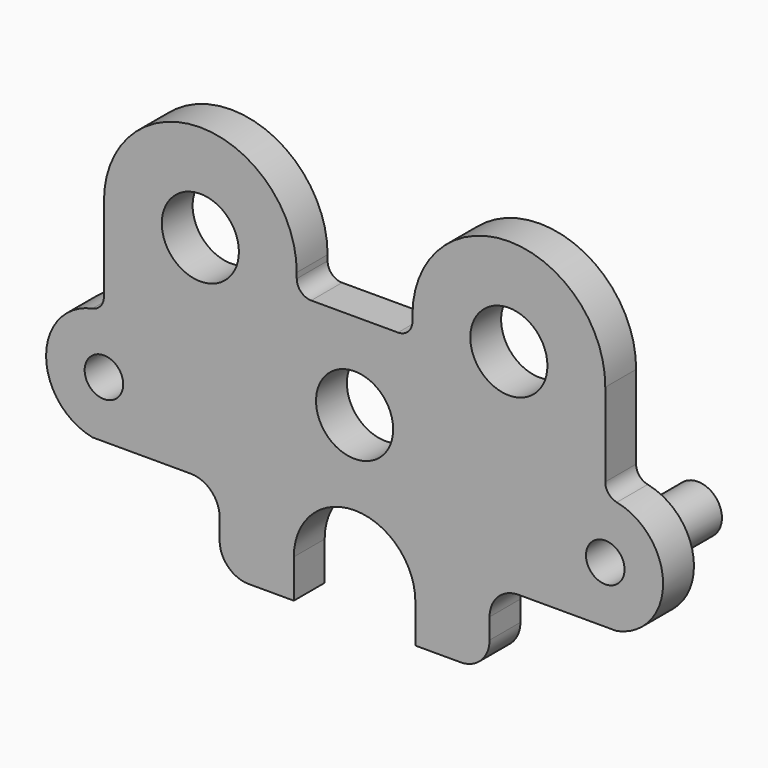
from build123d import *

# Parameters (mm, degrees)
F0_R     = 7.9375
F0_R_2   = 12.7
F0_R_3   = 6.35
F1_DEPTH = 12.7
F2_DEPTH = 25.4


with BuildPart() as f1:
    # F0 (on Front) → F1 (new body)
    with BuildSketch(Plane.XZ):
        with BuildLine():
            Line((14.2875, 28.575), (-14.2875, 28.575))
            ThreePointArc((-14.2875, 28.575), (-17.655096, 29.969904), (-19.05, 33.3375))
            Line((-19.05, 33.3375), (-19.05, 35.148678))
            ThreePointArc((-19.05, 35.148678), (-50.912234, 66.898875), (-82.55, 34.925))
            Line((-82.55, 34.925), (-82.55, 7.45639))
            ThreePointArc((-82.55, 7.45639), (-83.623483, 4.44432), (-86.36, 2.790112))
            ThreePointArc((-86.36, 2.790112), (-101.6, -15.875), (-86.36, -34.540112))
            Line((-86.36, -34.540112), (-82.55, -34.540112))
            Line((-82.55, -34.540112), (-53.975, -34.540112))
            ThreePointArc((-53.975, -34.540112), (-47.239808, -37.32992), (-44.45, -44.065112))
            Line((-44.45, -44.065112), (-44.45, -50.8))
            ThreePointArc((-44.45, -50.8), (-41.660192, -57.535192), (-34.925, -60.325))
            Line((-34.925, -60.325), (-20.016928, -60.325))
            Line((-20.016928, -60.325), (-20.016928, -47.625))
            ThreePointArc((-20.016928, -47.625), (0, -27.608072), (20.016928, -47.625))
            Line((20.016928, -47.625), (20.016928, -60.325))
            Line((20.016928, -60.325), (34.925, -60.325))
            ThreePointArc((34.925, -60.325), (41.660192, -57.535192), (44.45, -50.8))
            Line((44.45, -50.8), (44.45, -44.065112))
            ThreePointArc((44.45, -44.065112), (47.239808, -37.32992), (53.975, -34.540112))
            Line((53.975, -34.540112), (82.55, -34.540112))
            Line((82.55, -34.540112), (86.36, -34.540112))
            ThreePointArc((86.36, -34.540112), (101.6, -15.875), (86.36, 2.790112))
            ThreePointArc((86.36, 2.790112), (83.623483, 4.44432), (82.55, 7.45639))
            Line((82.55, 7.45639), (82.55, 34.925))
            ThreePointArc((82.55, 34.925), (50.912234, 66.898875), (19.05, 35.148678))
            Line((19.05, 35.148678), (19.05, 33.3375))
            ThreePointArc((19.05, 33.3375), (17.655096, 29.969904), (14.2875, 28.575))
        make_face()
        with Locations((-82.55, -15.875)):
            Circle(F0_R, mode=Mode.SUBTRACT)
        Circle(F0_R_2, mode=Mode.SUBTRACT)
        with Locations((82.55, -15.875)):
            Circle(F0_R, mode=Mode.SUBTRACT)
        with Locations((-50.8, 34.925)):
            Circle(F0_R_2, mode=Mode.SUBTRACT)
        with Locations((50.8, 34.925)):
            Circle(F0_R_2, mode=Mode.SUBTRACT)
        with Locations((82.55, -15.875)):
            Circle(F0_R)
        with Locations((82.55, -15.875)):
            Circle(F0_R_3, mode=Mode.SUBTRACT)
        with Locations((-82.55, -15.875)):
            Circle(F0_R)
        with Locations((-82.55, -15.875)):
            Circle(F0_R_3, mode=Mode.SUBTRACT)
    extrude(amount=F1_DEPTH)


with BuildPart() as f2:
    # F0 (on Front) → F2 (new body)
    with BuildSketch(Plane.XZ):
        with Locations((-82.55, -15.875)):
            Circle(F0_R)
        with Locations((-82.55, -15.875)):
            Circle(F0_R_3, mode=Mode.SUBTRACT)
        with Locations((82.55, -15.875)):
            Circle(F0_R)
        with Locations((82.55, -15.875)):
            Circle(F0_R_3, mode=Mode.SUBTRACT)
    extrude(amount=-F2_DEPTH)


solid = Compound([f1.part, f2.part])
